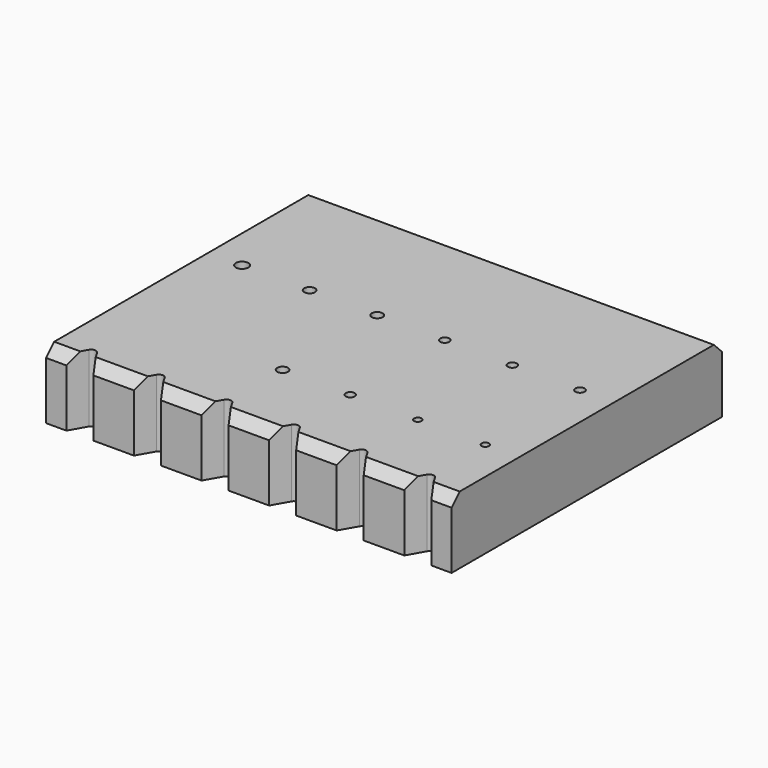
from build123d import *

# Parameters (mm, degrees)
F1_DEPTH = 20
F2_R     = 1.4
F3_W     = 10.1
F3_H     = 2.1
F4_DEPTH = 15
F5_SIZE  = 3
F7_D     = 2.2
F8_D     = 2.7
F9_D     = 3.2
F10_D    = 3.7


with BuildPart() as f1:
    # F0 (on Top) → F1 (new body)
    with BuildSketch(Plane.XY):
        Polygon((-46, -50), (-40, -50), (-34, -50), (-30, -43), (-26, -50), (-20, -50), (-14, -50), (-10, -43), (-6, -50), (0, -50), (6, -50), (10, -43), (14, -50), (20, -50), (26, -50), (30, -43), (34, -50), (40, -50), (46, -50), (50, -43), (54, -50), (60, -50), (60, 50), (-60, 50), (-60, -50), (-54, -50), (-50, -43), align=None)
    extrude(amount=F1_DEPTH)

    # F2
    f2_edges = [f1.edges().sort_by_distance(p)[0] for p in [
        (-50, -43, 10),
        (-30, -43, 10),
        (-10, -43, 10),
        (10, -43, 10),
        (30, -43, 10),
        (50, -43, 10),
    ]]
    fillet(f2_edges, radius=F2_R)

    # F3 (on face) → F4 (cut)
    with BuildSketch(Plane(origin=(0, 0, 0), x_dir=(1, 0, 0), z_dir=(0, 0, -1))):
        with Locations((-49.95, 42.45)):
            Rectangle(F3_W, F3_H)
        with Locations((-29.95, 42.45)):
            Rectangle(F3_W, F3_H)
        with Locations((-9.95, 42.45)):
            Rectangle(F3_W, F3_H)
        with Locations((10.05, 42.45)):
            Rectangle(F3_W, F3_H)
        with Locations((30.05, 42.45)):
            Rectangle(F3_W, F3_H)
        with Locations((50.05, 42.45)):
            Rectangle(F3_W, F3_H)
    extrude(amount=-F4_DEPTH, mode=Mode.SUBTRACT)

    # F5
    f5_edges = [f1.edges().sort_by_distance(p)[0] for p in [
        (0, 50, 20),
        (-40, -50, 20),
        (-57, -50, 20),
        (-20, -50, 20),
        (0, -50, 20),
        (20, -50, 20),
        (40, -50, 20),
        (57, -50, 20),
    ]]
    chamfer(f5_edges, length=F5_SIZE)

    # F7 (through all)
    with Locations(Plane.XY.offset(20)):
        with Locations((50, -25), (30, -25)):
            Hole(F7_D / 2)

    # F8 (through all)
    with Locations(Plane.XY.offset(20)):
        with Locations((50, 10), (30, 10), (10, 10), (10, -25)):
            Hole(F8_D / 2)

    # F9 (through all)
    with Locations(Plane.XY.offset(20)):
        with Locations((-10, 10), (-30, 10), (-10, -25)):
            Hole(F9_D / 2)

    # F10 (through all)
    with Locations(Plane.XY.offset(20)):
        with Locations((-50, 10)):
            Hole(F10_D / 2)


solid = f1.part
